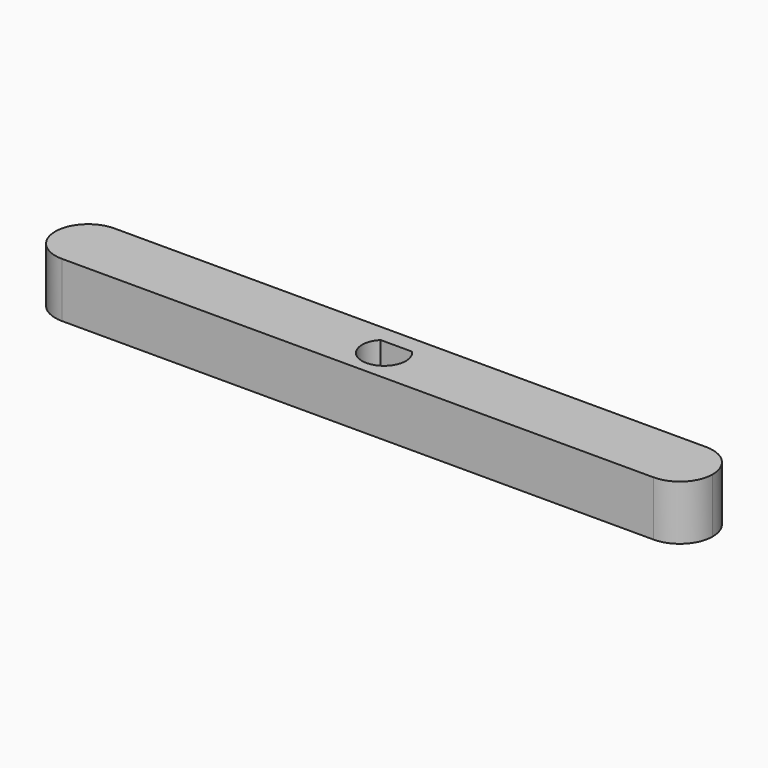
from build123d import *

# Parameters (mm, degrees)
F1_DEPTH = 5


with BuildPart() as f1:
    # F0 (on Top) → F1 (new body)
    with BuildSketch(Plane.XY):
        with BuildLine():
            Line((-27, -3), (27, -3))
            ThreePointArc((27, -3), (29.12132, -2.12132), (30, 0))
            ThreePointArc((30, 0), (29.12132, 2.12132), (27, 3))
            Line((27, 3), (-27, 3))
            ThreePointArc((-27, 3), (-29.12132, 2.12132), (-30, 0))
            ThreePointArc((-30, 0), (-29.12132, -2.12132), (-27, -3))
        make_face()
        with BuildLine():
            ThreePointArc((1.428286, 1.4), (0, -2), (-1.428286, 1.4))
            Line((-1.428286, 1.4), (1.428286, 1.4))
        make_face(mode=Mode.SUBTRACT)
    extrude(amount=F1_DEPTH)


solid = f1.part
